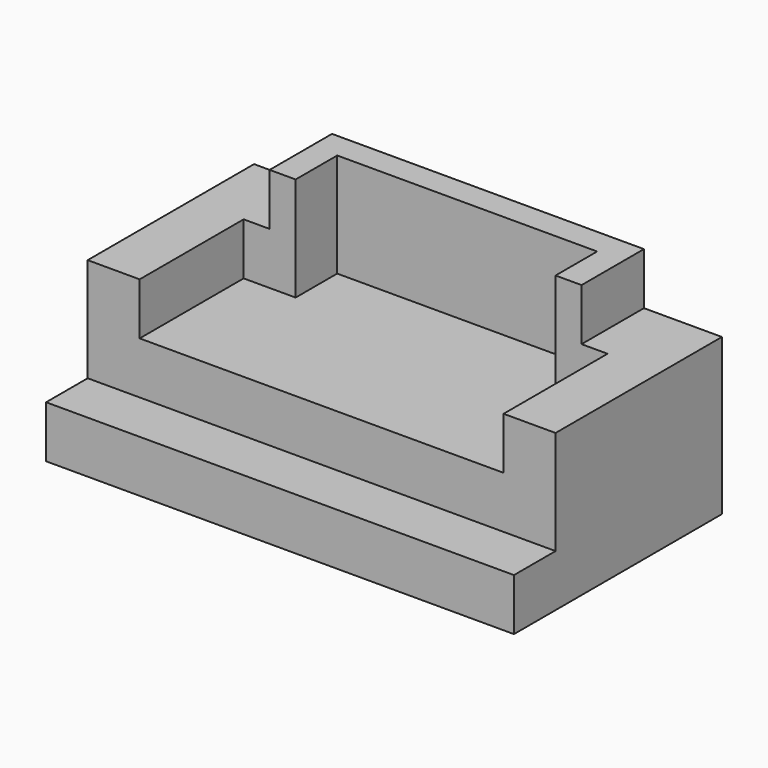
from build123d import *

# Parameters (mm, degrees)
F0_W     = 114.3
F0_H     = 63.5
F1_DEPTH = 38.1
F2_W     = 63.5
F2_H     = 6.35
F3_DEPTH = 12.7
F4_W     = 63.5
F4_H     = 12.7
F5_DEPTH = 12.7
F6_W     = 114.3
F6_H     = 12.7
F7_DEPTH = 25.4


with BuildPart() as f1:
    # F0 (on Top) → F1 (new body)
    with BuildSketch(Plane.XY):
        with Locations((22.379107, 10.678026)):
            Rectangle(F0_W, F0_H)
    extrude(amount=F1_DEPTH)

    # F2 (on face) → F3 (join)
    with BuildSketch(Plane.XY.offset(38.1)):
        Polygon((54.129107, 42.428026), (54.129107, 36.078026), (54.129107, 23.378026), (60.479107, 23.378026), (60.479107, 42.428026), align=None)
        with Locations((22.379107, 39.253026)):
            Rectangle(F2_W, F2_H)
        Polygon((-15.720893, 42.428026), (-15.720893, 23.378026), (-9.370893, 23.378026), (-9.370893, 36.078026), (-9.370893, 42.428026), align=None)
    extrude(amount=F3_DEPTH)

    # F4 (on face) → F5 (cut)
    with BuildSketch(Plane.XY.offset(38.1)):
        with Locations((22.379107, 29.728026)):
            Rectangle(F4_W, F4_H)
        Polygon((-15.720893, 23.378026), (-22.070893, 23.378026), (-22.070893, -8.371974), (66.829107, -8.371974), (66.829107, 23.378026), (60.479107, 23.378026), (54.129107, 23.378026), (-9.370893, 23.378026), align=None)
    extrude(amount=-F5_DEPTH, mode=Mode.SUBTRACT)

    # F6 (on face) → F7 (cut)
    with BuildSketch(Plane.XY.offset(38.1)):
        with Locations((22.379107, -14.721974)):
            Rectangle(F6_W, F6_H)
    extrude(amount=-F7_DEPTH, mode=Mode.SUBTRACT)


solid = f1.part
